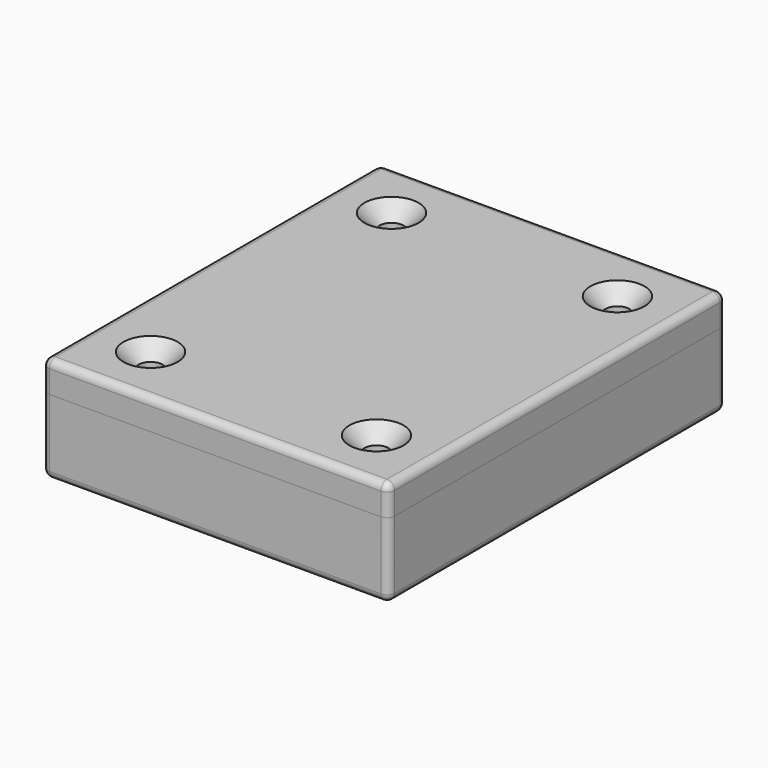
from build123d import *

# Parameters (mm, degrees)
SKETCH_W        = 46
SKETCH_H        = 56
PAD_DEPTH       = 10
SKETCH001_W     = 42
SKETCH001_H     = 52
POCKET_DEPTH    = 8
SKETCH004_W     = 44.2
SKETCH004_H     = 54.2
POCKET002_DEPTH = 1
PAD004_DEPTH    = 6
SKETCH010_R     = 2
POCKET005_DEPTH = 6
FILLET_R        = 1
SKETCH002_W     = 46
SKETCH002_H     = 56
PAD001_DEPTH    = 4
SKETCH003_W     = 42
SKETCH003_H     = 52
POCKET001_DEPTH = 2
SKETCH005_W     = 43.8
SKETCH005_H     = 53.8
PAD002_DEPTH    = 1
SKETCH006_W     = 42
SKETCH006_H     = 52
POCKET003_DEPTH = 1
PAD005_DEPTH    = 2
SKETCH012_R     = 1.6
POCKET006_DEPTH = 4
FILLET001_R     = 1
CHAMFER_SIZE    = 2


with BuildPart() as boxbottom:
    # Sketch → Pad (new body)
    with BuildSketch(Plane.XY):
        Rectangle(SKETCH_W, SKETCH_H)
    extrude(amount=PAD_DEPTH)

    # Sketch001 (on DatumPlane) → Pocket (cut)
    with BuildSketch(Plane.XY.offset(10)):
        Rectangle(SKETCH001_W, SKETCH001_H)
    extrude(amount=-POCKET_DEPTH, mode=Mode.SUBTRACT)

    # Sketch004 (on DatumPlane) → Pocket002 (cut)
    with BuildSketch(Plane.XY.offset(10)):
        Rectangle(SKETCH004_W, SKETCH004_H)
    extrude(amount=-POCKET002_DEPTH, mode=Mode.SUBTRACT)

    # Sketch009 (on DatumPlane) → Pad004 (join)
    with BuildSketch(Plane.XY.offset(8)):
        with BuildLine():
            ThreePointArc((-11.5, -20), (-12.525126, -17.525126), (-15, -16.5))
            Line((-15, -16.5), (-21, -16.5))
            Line((-21, -16.5), (-21, -26))
            Line((-21, -26), (-11.5, -26))
            Line((-11.5, -26), (-11.5, -20))
        make_face()
        with BuildLine():
            ThreePointArc((15, -16.5), (12.525126, -17.525126), (11.5, -20))
            Line((11.5, -20), (11.5, -26))
            Line((11.5, -26), (21, -26))
            Line((21, -26), (21, -16.5))
            Line((21, -16.5), (15, -16.5))
        make_face()
        with BuildLine():
            ThreePointArc((11.5, 20), (12.525126, 17.525126), (15, 16.5))
            Line((15, 16.5), (21, 16.5))
            Line((21, 16.5), (21, 26))
            Line((21, 26), (11.5, 26))
            Line((11.5, 26), (11.5, 20))
        make_face()
        with BuildLine():
            ThreePointArc((-15, 16.5), (-12.525126, 17.525126), (-11.5, 20))
            Line((-11.5, 20), (-11.5, 26))
            Line((-11.5, 26), (-21, 26))
            Line((-21, 26), (-21, 16.5))
            Line((-21, 16.5), (-15, 16.5))
        make_face()
    extrude(amount=-PAD004_DEPTH)

    # Sketch010 (on DatumPlane) → Pocket005 (cut)
    with BuildSketch(Plane.XY.offset(8)):
        with Locations((15, 20)):
            Circle(SKETCH010_R)
        with Locations((-15, 20)):
            Circle(SKETCH010_R)
        with Locations((-15, -20)):
            Circle(SKETCH010_R)
        with Locations((15, -20)):
            Circle(SKETCH010_R)
    extrude(amount=-POCKET005_DEPTH, mode=Mode.SUBTRACT)

    # Fillet
    fillet_edges = [boxbottom.edges().sort_by_distance(p)[0] for p in [
        (23, -28, 5),
        (-23, -28, 5),
        (0, -28, 0),
        (-23, 0, 0),
        (23, 0, 0),
        (0, 28, 0),
        (23, 28, 5),
        (-23, 28, 5),
    ]]
    fillet(fillet_edges, radius=FILLET_R)


with BuildPart() as boxcover:
    # Sketch002 (on DatumPlane) → Pad001 (new body)
    with BuildSketch(Plane.XY.offset(10)):
        Rectangle(SKETCH002_W, SKETCH002_H)
    extrude(amount=PAD001_DEPTH)

    # Sketch003 (on DatumPlane) → Pocket001 (cut)
    with BuildSketch(Plane.XY.offset(10)):
        Rectangle(SKETCH003_W, SKETCH003_H)
    extrude(amount=POCKET001_DEPTH, mode=Mode.SUBTRACT)

    # Sketch005 (on DatumPlane) → Pad002 (join)
    with BuildSketch(Plane.XY.offset(10)):
        Rectangle(SKETCH005_W, SKETCH005_H)
    extrude(amount=-PAD002_DEPTH)

    # Sketch006 (on DatumPlane) → Pocket003 (cut)
    with BuildSketch(Plane.XY.offset(10)):
        Rectangle(SKETCH006_W, SKETCH006_H)
    extrude(amount=-POCKET003_DEPTH, mode=Mode.SUBTRACT)

    # Sketch011 (on DatumPlane) → Pad005 (join)
    with BuildSketch(Plane.XY.offset(12)):
        with BuildLine():
            ThreePointArc((-15, 16.5), (-12.525126, 17.525126), (-11.5, 20))
            Line((-11.5, 20), (-11.5, 26))
            Line((-11.5, 26), (-21, 26))
            Line((-21, 26), (-21, 16.5))
            Line((-21, 16.5), (-15, 16.5))
        make_face()
        with BuildLine():
            ThreePointArc((-11.5, -20), (-12.525126, -17.525126), (-15, -16.5))
            Line((-15, -16.5), (-21, -16.5))
            Line((-21, -16.5), (-21, -26))
            Line((-21, -26), (-11.5, -26))
            Line((-11.5, -26), (-11.5, -20))
        make_face()
        with BuildLine():
            ThreePointArc((15, -16.5), (12.525126, -17.525126), (11.5, -20))
            Line((11.5, -20), (11.5, -26))
            Line((11.5, -26), (21, -26))
            Line((21, -26), (21, -16.5))
            Line((21, -16.5), (15, -16.5))
        make_face()
        with BuildLine():
            ThreePointArc((11.5, 20), (12.525126, 17.525126), (15, 16.5))
            Line((15, 16.5), (21, 16.5))
            Line((21, 16.5), (21, 26))
            Line((21, 26), (11.5, 26))
            Line((11.5, 26), (11.5, 20))
        make_face()
    extrude(amount=-PAD005_DEPTH)

    # Sketch012 (on DatumPlane) → Pocket006 (cut)
    with BuildSketch(Plane.XY.offset(14)):
        with Locations((-15, 20)):
            Circle(SKETCH012_R)
        with Locations((15, 20)):
            Circle(SKETCH012_R)
        with Locations((15, -20)):
            Circle(SKETCH012_R)
        with Locations((-15, -20)):
            Circle(SKETCH012_R)
    extrude(amount=-POCKET006_DEPTH, mode=Mode.SUBTRACT)

    # Fillet001
    fillet001_edges = [boxcover.edges().sort_by_distance(p)[0] for p in [
        (23, 0, 14),
        (0, 28, 14),
        (23, 28, 12),
        (-23, 28, 12),
        (-23, -28, 12),
        (-23, 0, 14),
        (0, -28, 14),
        (23, -28, 12),
    ]]
    fillet(fillet001_edges, radius=FILLET001_R)

    # Chamfer
    chamfer_edges = [boxcover.edges().sort_by_distance(p)[0] for p in [
        (-16.6, 20, 14),
        (13.4, 20, 14),
        (13.4, -20, 14),
        (-16.6, -20, 14),
    ]]
    chamfer(chamfer_edges, length=CHAMFER_SIZE)


solid = Compound([boxbottom.part, boxcover.part])
